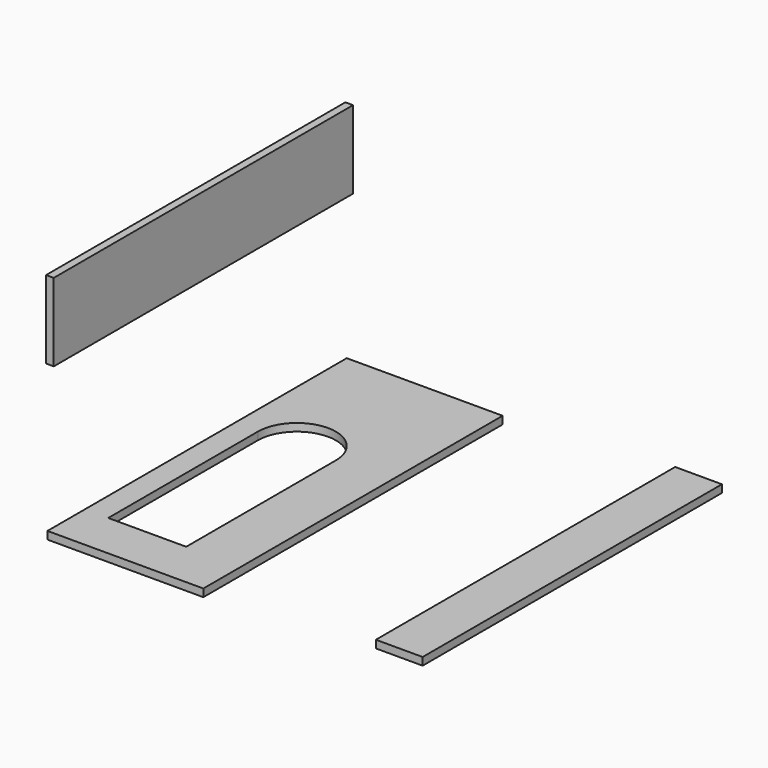
from build123d import *

# Parameters (mm, degrees)
F0_W     = 63.5
F0_H     = 152.4
F2_DEPTH = 3.1242
F1_W     = 31.75
F1_H     = 76.2
F3_DEPTH = 25.4
F4_R     = 15.875
F5_DEPTH = 25.4
F6_W     = 19.05
F6_H     = 152.4
F7_DEPTH = 3.1242
F8_W     = 152.4
F8_H     = 31.75
F9_DEPTH = 3.1242


with BuildPart() as f2:
    # F0 (on Top) → F2 (new body)
    with BuildSketch(Plane.XY):
        with Locations((-17.301103, 42.479957)):
            Rectangle(F0_W, F0_H)
    extrude(amount=F2_DEPTH)

    # F1 (on Top) → F3 (cut)
    with BuildSketch(Plane.XY):
        with Locations((-23.651103, 23.429957)):
            Rectangle(F1_W, F1_H)
    extrude(amount=F3_DEPTH, mode=Mode.SUBTRACT)

    # F4 (on Top) → F5 (cut)
    with BuildSketch(Plane.XY):
        with Locations((-23.651103, 61.529957)):
            Circle(F4_R)
    extrude(amount=F5_DEPTH, mode=Mode.SUBTRACT)


with BuildPart() as f7:
    # F6 (on Top) → F7 (new body)
    with BuildSketch(Plane.XY):
        with Locations((88.873714, 49.208982)):
            Rectangle(F6_W, F6_H)
    extrude(amount=F7_DEPTH)


with BuildPart() as f9:
    # F8 (on Right) → F9 (new body)
    with BuildSketch(Plane.YZ):
        with Locations((-19.53739, 120.174374)):
            Rectangle(F8_W, F8_H)
    extrude(amount=F9_DEPTH)


solid = Compound([f2.part, f7.part, f9.part])
